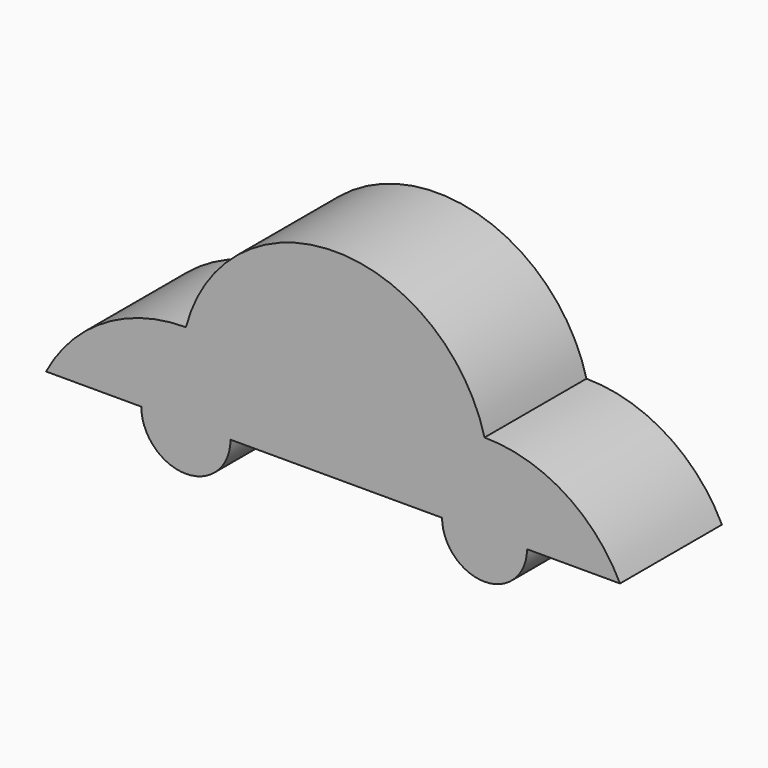
from build123d import *

# Parameters (mm, degrees)
F1_DEPTH = 25.4


with BuildPart() as f1:
    # F0 (on Front) → F1 (new body)
    with BuildSketch(Plane.XZ):
        with BuildLine():
            ThreePointArc((21.200472489, 19.3127579987), (-8.5673136637, 42.2817845397), (-38.3350998163, 19.3127579987))
            Line((-38.3350998163, 19.3127579987), (21.200472489, 19.3127579987))
        make_face()
        with BuildLine():
            Line((21.200472489, 19.3127579987), (-38.3350998163, 19.3127579987))
            Line((-38.3350998163, 19.3127579987), (-38.3350998163, 11.3583576339))
            ThreePointArc((-38.3350998163, 11.3583576339), (-32.0490551525, 8.7545926804), (-29.4452901991, 2.4685480166))
            Line((-29.4452901991, 2.4685480166), (12.7334234435, 2.4685480166))
            ThreePointArc((12.7334234435, 2.4685480166), (15.2133646923, 8.4556558134), (21.200472489, 10.9355970622))
            Line((21.200472489, 10.9355970622), (21.200472489, 19.3127579987))
        make_face()
        with BuildLine():
            Line((-38.3350998163, 11.3583576339), (-38.3350998163, 19.3127579987))
            ThreePointArc((-38.3350998163, 19.3127579987), (-54.62179575, 14.7747794285), (-66.21517241, 2.4685480166))
            Line((-66.21517241, 2.4685480166), (-47.2249094336, 2.4685480166))
            ThreePointArc((-47.2249094336, 2.4685480166), (-44.6211444801, 8.7545926804), (-38.3350998163, 11.3583576339))
        make_face()
        with BuildLine():
            ThreePointArc((48.2092909515, 2.4685480166), (37.1159027743, 14.7566004179), (21.200472489, 19.3127579987))
            Line((21.200472489, 19.3127579987), (21.200472489, 10.9355970622))
            ThreePointArc((21.200472489, 10.9355970622), (27.1875802857, 8.4556558134), (29.6675215345, 2.4685480166))
            Line((29.6675215345, 2.4685480166), (48.2092909515, 2.4685480166))
        make_face()
        with BuildLine():
            ThreePointArc((-29.4452901991, 2.4685480166), (-32.0490551525, 8.7545926804), (-38.3350998163, 11.3583576339))
            Line((-38.3350998163, 11.3583576339), (-38.3350998163, 2.4685480166))
            Line((-38.3350998163, 2.4685480166), (-29.4452901991, 2.4685480166))
        make_face()
        with BuildLine():
            Line((-38.3350998163, 2.4685480166), (-38.3350998163, 11.3583576339))
            ThreePointArc((-38.3350998163, 11.3583576339), (-44.6211444801, 8.7545926804), (-47.2249094336, 2.4685480166))
            Line((-47.2249094336, 2.4685480166), (-38.3350998163, 2.4685480166))
        make_face()
        with BuildLine():
            ThreePointArc((29.6675215345, 2.4685480166), (27.1875802857, 8.4556558134), (21.200472489, 10.9355970622))
            Line((21.200472489, 10.9355970622), (21.200472489, 2.4685480166))
            Line((21.200472489, 2.4685480166), (29.6675215345, 2.4685480166))
        make_face()
        with BuildLine():
            Line((21.200472489, 2.4685480166), (21.200472489, 10.9355970622))
            ThreePointArc((21.200472489, 10.9355970622), (15.2133646923, 8.4556558134), (12.7334234435, 2.4685480166))
            Line((12.7334234435, 2.4685480166), (21.200472489, 2.4685480166))
        make_face()
        with BuildLine():
            Line((-29.4452901991, 2.4685480166), (-38.3350998163, 2.4685480166))
            Line((-38.3350998163, 2.4685480166), (-47.2249094336, 2.4685480166))
            ThreePointArc((-47.2249094336, 2.4685480166), (-38.3350998163, -6.4212616006), (-29.4452901991, 2.4685480166))
        make_face()
        with BuildLine():
            Line((29.6675215345, 2.4685480166), (21.200472489, 2.4685480166))
            Line((21.200472489, 2.4685480166), (12.7334234435, 2.4685480166))
            ThreePointArc((12.7334234435, 2.4685480166), (21.200472489, -5.9985010289), (29.6675215345, 2.4685480166))
        make_face()
    extrude(amount=F1_DEPTH)


solid = f1.part
